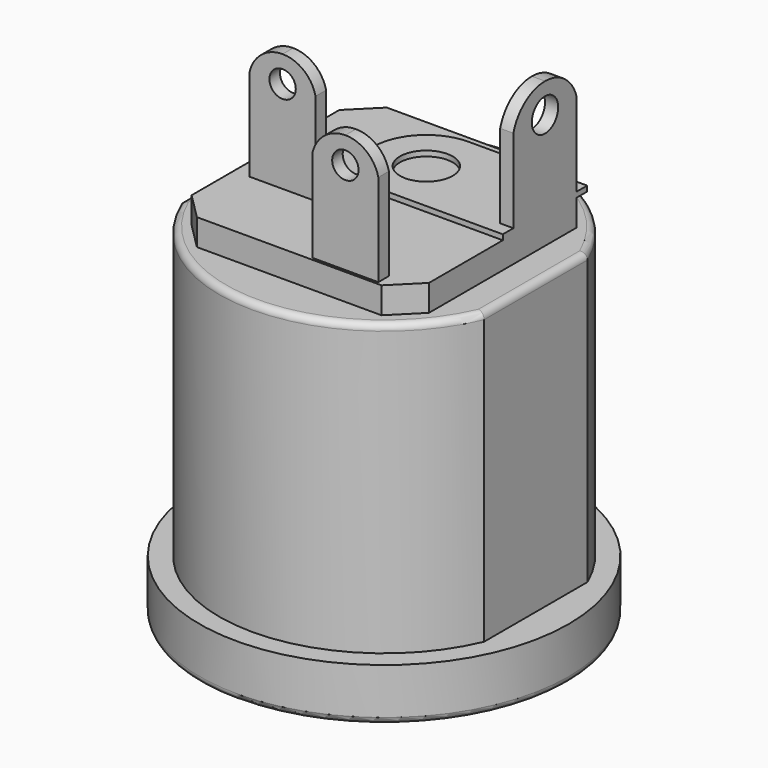
from build123d import *

# Parameters (mm, degrees)
F0_R      = 7
F1_DEPTH  = 2
F3_DEPTH  = 11
F4_R      = 3
F5_DEPTH  = 10
F7_DEPTH  = 1
F8_R      = 1
F9_DEPTH  = 0.2
F10_W     = 0.5
F10_H     = 3
F10_W_2   = 2.5
F10_H_2   = 0.5
F11_DEPTH = 4.5
F12_R     = 0.625
F13_DEPTH = 25
F14_R     = 0.5
F15_DEPTH = 11.401
F16_R     = 1
F17_DEPTH = 9.5
F18_R     = 0.25


with BuildPart() as f1:
    # F0 (on Top) → F1 (new body)
    with BuildSketch(Plane.XY):
        Circle(F0_R)
    extrude(amount=F1_DEPTH)

    # F2 (on face) → F3 (join)
    with BuildSketch(Plane.XY.offset(2)):
        with BuildLine():
            Line((-5.75, 2.44949), (-5.75, -2.44949))
            ThreePointArc((-5.75, -2.44949), (0, -6.25), (5.75, -2.44949))
            Line((5.75, -2.44949), (5.75, 2.44949))
            ThreePointArc((5.75, 2.44949), (0, 6.25), (-5.75, 2.44949))
        make_face()
    extrude(amount=F3_DEPTH)

    # F4 (on face) → F5 (cut)
    with BuildSketch(Plane(origin=(0, 0, 0), x_dir=(1, 0, 0), z_dir=(0, 0, -1))):
        with Locations((0, -2)):
            Circle(F4_R)
    extrude(amount=-F5_DEPTH, mode=Mode.SUBTRACT)

    # F6 (on face) → F7 (join)
    with BuildSketch(Plane.XY.offset(13)):
        Polygon((-3.5, -4.5), (3.5, -4.5), (4.5, -3.5), (4.5, 3.5), (3.5, 4.5), (-3.5, 4.5), (-4.5, 3.5), (-4.5, -3.5), align=None)
    extrude(amount=F7_DEPTH)

    # F8 (on face) → F9 (join)
    with BuildSketch(Plane.XY.offset(14)):
        with BuildLine():
            Line((4.5, 0), (4.5, 4))
            Line((4.5, 4), (0, 4))
            ThreePointArc((0, 4), (-1.414214, 3.414214), (-2, 2))
            ThreePointArc((-2, 2), (-1.414214, 0.585786), (0, 0))
            Line((0, 0), (4.5, 0))
        make_face()
        with Locations((0, 2)):
            Circle(F8_R, mode=Mode.SUBTRACT)
    extrude(amount=F9_DEPTH)

    # F10 (on face) → F11 (join)
    with BuildSketch(Plane.XY.offset(14)):
        with Locations((4.25, 2)):
            Rectangle(F10_W, F10_H)
        with Locations((2.05, -4.15)):
            Rectangle(F10_W_2, F10_H_2)
        with Locations((-2.65, -1.25)):
            Rectangle(F10_W_2, F10_H_2)
    extrude(amount=F11_DEPTH)

    # F12 (on face) → F13 (cut)
    with BuildSketch(Plane.YZ.offset(4.5)):
        with Locations((2, 17.372569)):
            Circle(F12_R)
        with BuildLine():
            ThreePointArc((0.5, 17.372569), (1.06177, 18.186716), (2, 18.5))
            Line((2, 18.5), (0.5, 18.5))
            Line((0.5, 18.5), (0.5, 17.372569))
        make_face()
        with BuildLine():
            ThreePointArc((2, 18.5), (2.93823, 18.186716), (3.5, 17.372569))
            Line((3.5, 17.372569), (3.5, 18.5))
            Line((3.5, 18.5), (2, 18.5))
        make_face()
    extrude(amount=-F13_DEPTH, mode=Mode.SUBTRACT)

    # F14 (on face) → F15 (cut, through all)
    with BuildSketch(Plane.XZ.offset(4.4)):
        with Locations((2.05, 17.5)):
            Circle(F14_R)
        with BuildLine():
            ThreePointArc((2.05, 18.5), (2.850391, 18.219238), (3.3, 17.5))
            Line((3.3, 17.5), (3.3, 18.5))
            Line((3.3, 18.5), (2.05, 18.5))
        make_face()
        with BuildLine():
            ThreePointArc((0.8, 17.5), (1.249609, 18.219238), (2.05, 18.5))
            Line((2.05, 18.5), (0.8, 18.5))
            Line((0.8, 18.5), (0.8, 17.5))
        make_face()
        with Locations((-2.65, 17.5)):
            Circle(F14_R)
        with BuildLine():
            Line((-3.9, 18.5), (-3.9, 17.5))
            ThreePointArc((-3.9, 17.5), (-3.450391, 18.219238), (-2.65, 18.5))
            Line((-2.65, 18.5), (-3.9, 18.5))
        make_face()
        with BuildLine():
            ThreePointArc((-2.65, 18.5), (-1.849609, 18.219238), (-1.4, 17.5))
            Line((-1.4, 17.5), (-1.4, 18.5))
            Line((-1.4, 18.5), (-2.65, 18.5))
        make_face()
    extrude(amount=-F15_DEPTH, mode=Mode.SUBTRACT)

    # F16 (on face) → F17 (join)
    with BuildSketch(Plane(origin=(0, 0, 10), x_dir=(1, 0, 0), z_dir=(0, 0, -1))):
        with Locations((0, -2)):
            Circle(F16_R)
    extrude(amount=F17_DEPTH)

    # F18
    f18_edges = [f1.edges().sort_by_distance(p)[0] for p in [
        (-1, 2, 0.5),
        (-7, 0, 0),
        (0, 6.25, 13),
        (5.75, 0, 13),
        (0, -6.25, 13),
        (-5.75, 0, 13),
    ]]
    fillet(f18_edges, radius=F18_R)


solid = f1.part
